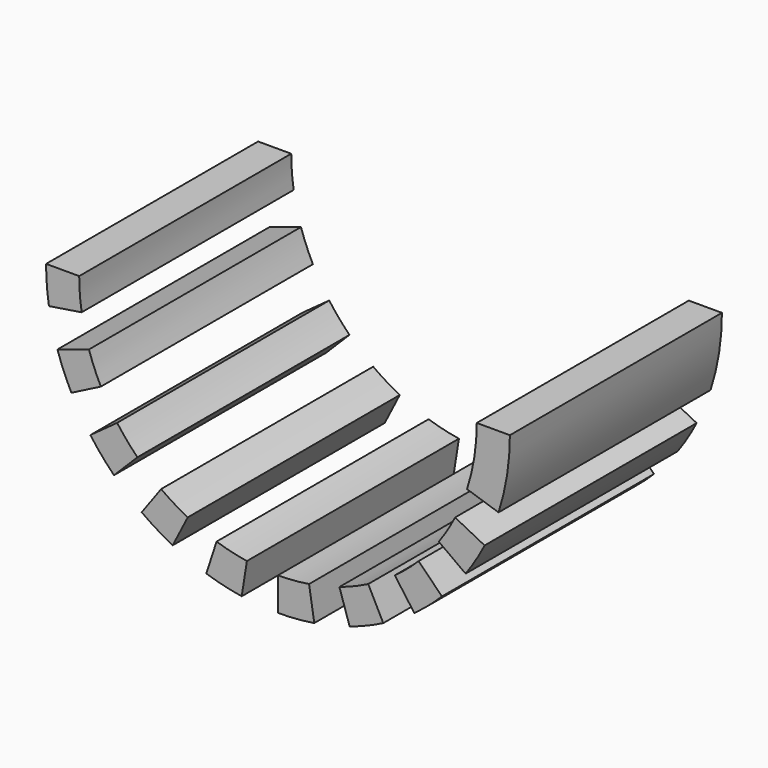
from build123d import *

# Parameters (mm, degrees)
F1_DEPTH = 200


with BuildPart() as f1:
    # F0 (on Front) → F1 (new body)
    with BuildSketch(Plane.XZ):
        with BuildLine():
            Line((-150, 0), (-175, 0))
            ThreePointArc((-175, 0), (-174.460533, -13.730342), (-172.84546, -27.376031))
            Line((-172.84546, -27.376031), (-148.153251, -23.46517))
            ThreePointArc((-148.153251, -23.46517), (-149.5376, -11.768864), (-150, 0))
        make_face()
        with BuildLine():
            Line((175, 0), (150, 0))
            ThreePointArc((150, 0), (148.153251, -23.46517), (142.658477, -46.352549))
            Line((142.658477, -46.352549), (166.43489, -54.077974))
            ThreePointArc((166.43489, -54.077974), (172.84546, -27.376031), (175, 0))
        make_face()
        with BuildLine():
            ThreePointArc((-133.650979, -68.098575), (-138.58193, -57.402515), (-142.658477, -46.352549))
            Line((-142.658477, -46.352549), (-166.43489, -54.077974))
            ThreePointArc((-166.43489, -54.077974), (-161.678918, -66.969601), (-155.926142, -79.448337))
            Line((-155.926142, -79.448337), (-133.650979, -68.098575))
        make_face()
        with BuildLine():
            ThreePointArc((-106.066017, -106.066017), (-114.060895, -97.417207), (-121.352549, -88.167788))
            Line((-121.352549, -88.167788), (-141.577974, -102.862419))
            ThreePointArc((-141.577974, -102.862419), (-133.071044, -113.653408), (-123.743687, -123.743687))
            Line((-123.743687, -123.743687), (-106.066017, -106.066017))
        make_face()
        with BuildLine():
            ThreePointArc((-68.098575, -133.650979), (-78.374785, -127.896025), (-88.167788, -121.352549))
            Line((-88.167788, -121.352549), (-102.862419, -141.577974))
            ThreePointArc((-102.862419, -141.577974), (-91.437249, -149.212029), (-79.448337, -155.926142))
            Line((-79.448337, -155.926142), (-68.098575, -133.650979))
        make_face()
        with BuildLine():
            ThreePointArc((-23.46517, -148.153251), (-35.016805, -145.855488), (-46.352549, -142.658477))
            Line((-46.352549, -142.658477), (-54.077974, -166.43489))
            ThreePointArc((-54.077974, -166.43489), (-40.852939, -170.164736), (-27.376031, -172.84546))
            Line((-27.376031, -172.84546), (-23.46517, -148.153251))
        make_face()
        with BuildLine():
            ThreePointArc((23.46517, -148.153251), (11.768864, -149.5376), (0, -150))
            Line((0, -150), (0, -175))
            ThreePointArc((0, -175), (13.730342, -174.460533), (27.376031, -172.84546))
            Line((27.376031, -172.84546), (23.46517, -148.153251))
        make_face()
        with BuildLine():
            ThreePointArc((68.098575, -133.650979), (57.402515, -138.58193), (46.352549, -142.658477))
            Line((46.352549, -142.658477), (54.077974, -166.43489))
            ThreePointArc((54.077974, -166.43489), (66.969601, -161.678918), (79.448337, -155.926142))
            Line((79.448337, -155.926142), (68.098575, -133.650979))
        make_face()
        with BuildLine():
            ThreePointArc((106.066017, -106.066017), (97.417207, -114.060895), (88.167788, -121.352549))
            Line((88.167788, -121.352549), (102.862419, -141.577974))
            ThreePointArc((102.862419, -141.577974), (113.653408, -133.071044), (123.743687, -123.743687))
            Line((123.743687, -123.743687), (106.066017, -106.066017))
        make_face()
        with BuildLine():
            ThreePointArc((133.650979, -68.098575), (127.896025, -78.374785), (121.352549, -88.167788))
            Line((121.352549, -88.167788), (141.577974, -102.862419))
            ThreePointArc((141.577974, -102.862419), (149.212029, -91.437249), (155.926142, -79.448337))
            Line((155.926142, -79.448337), (133.650979, -68.098575))
        make_face()
    extrude(amount=F1_DEPTH)


solid = f1.part
